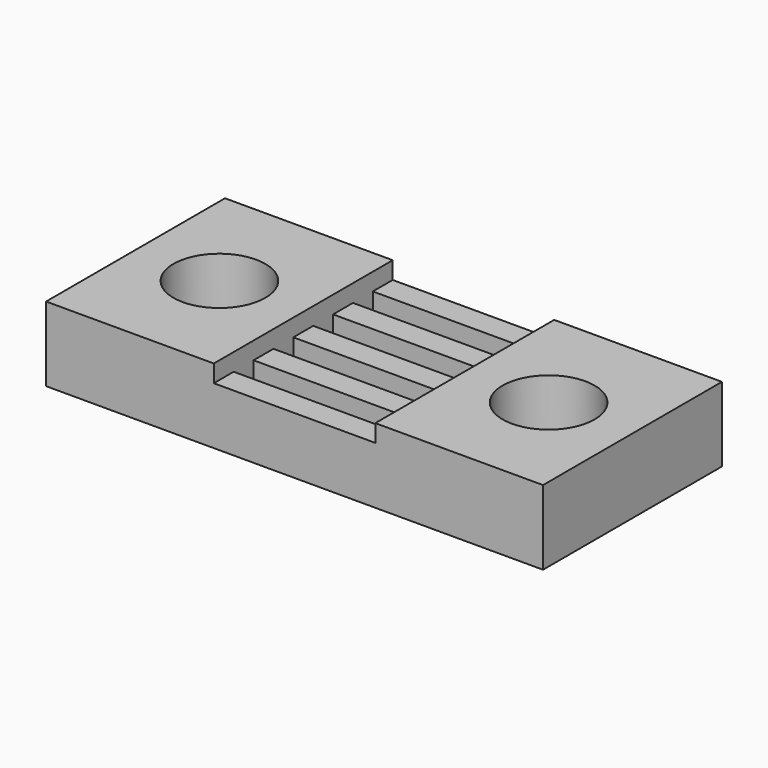
from build123d import *

# Parameters (mm, degrees)
F0_W     = 20
F0_H     = 9
F1_DEPTH = 3
F3_DEPTH = 3.25
F4_R     = 1.85
F5_DEPTH = 25


with BuildPart() as f1:
    # F0 (on Top) → F1 (new body)
    with BuildSketch(Plane.XY):
        Rectangle(F0_W, F0_H)
    extrude(amount=F1_DEPTH)

    # F2 (on Right) → F3 (cut, symmetric)
    with BuildSketch(Plane.YZ):
        Polygon((4.5, 3), (0, 3), (-4.5, 3), (-4.5, 2.3), (-3.5, 2.3), (-3.5, 1.3), (-2.5, 1.3), (-2.5, 2.3), (-1.5, 2.3), (-1.5, 1.3), (-0.5, 1.3), (-0.5, 2.3), (0, 2.3), (0.5, 2.3), (0.5, 1.3), (1.5, 1.3), (1.5, 2.3), (2.5, 2.3), (2.5, 1.3), (3.5, 1.3), (3.5, 2.3), (4.5, 2.3), align=None)
    extrude(amount=F3_DEPTH, both=True, mode=Mode.SUBTRACT)

    # F4 (on face) → F5 (cut)
    with BuildSketch(Plane.XY.offset(3)):
        with Locations((-6.625, 0)):
            Circle(F4_R)
        with Locations((6.625, 0)):
            Circle(F4_R)
    extrude(amount=-F5_DEPTH, mode=Mode.SUBTRACT)


solid = f1.part
